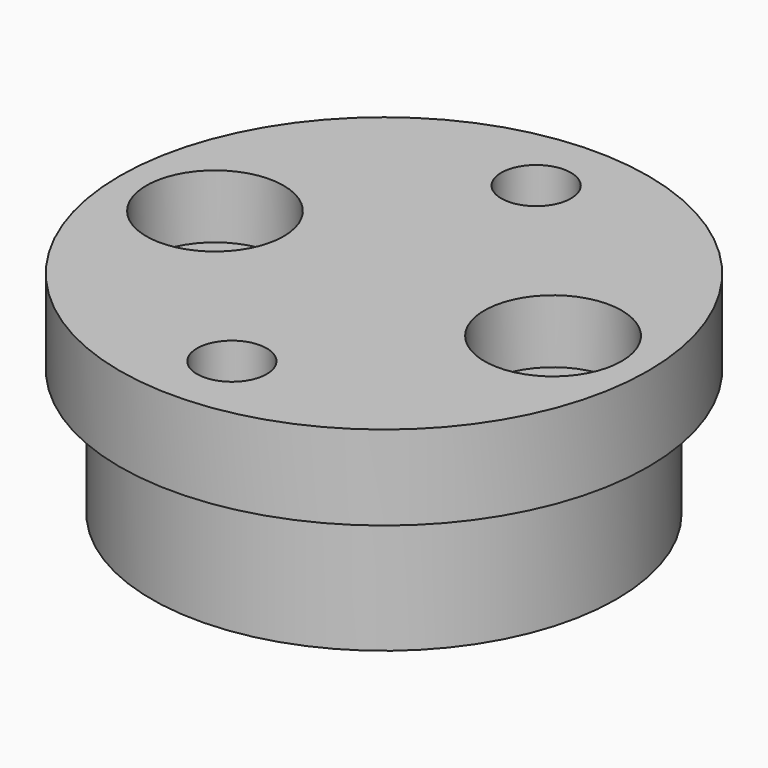
from build123d import *

# Parameters (mm, degrees)
F3_D           = 3.3
F3_DEPTH       = 10
F3_TIP         = 0.9914200214
F4_D           = 3.3
F4_DEPTH       = 10
F4_CBORE_D     = 6.5
F4_CBORE_DEPTH = 3
F4_TIP         = 0.9914200214


with BuildPart() as f1:
    # F0 (on Front) → F1 (revolve)
    with BuildSketch(Plane.XZ):
        Polygon((0, 10), (0, 0), (11, 0), (11, 6), (12.5, 6), (12.5, 10), align=None)
    revolve(axis=Axis((0, 0, 5), (0, 0, -1)))

    # F3
    with Locations(Plane.XY.offset(10)):
        with Locations((0, 9), (0, -9)):
            Hole(F3_D / 2, depth=F3_DEPTH)
            with Locations((0, 0, -(F3_DEPTH + F3_TIP / 2))):  # 118° drill point
                Cone(0, F3_D / 2, F3_TIP, mode=Mode.SUBTRACT)

    # F4
    with Locations(Plane.XY.offset(10)):
        with Locations((-8, 0), (8, 0)):
            CounterBoreHole(F4_D / 2, F4_CBORE_D / 2, F4_CBORE_DEPTH, depth=F4_DEPTH)
            with Locations((0, 0, -(F4_DEPTH + F4_TIP / 2))):  # 118° drill point
                Cone(0, F4_D / 2, F4_TIP, mode=Mode.SUBTRACT)


solid = f1.part
